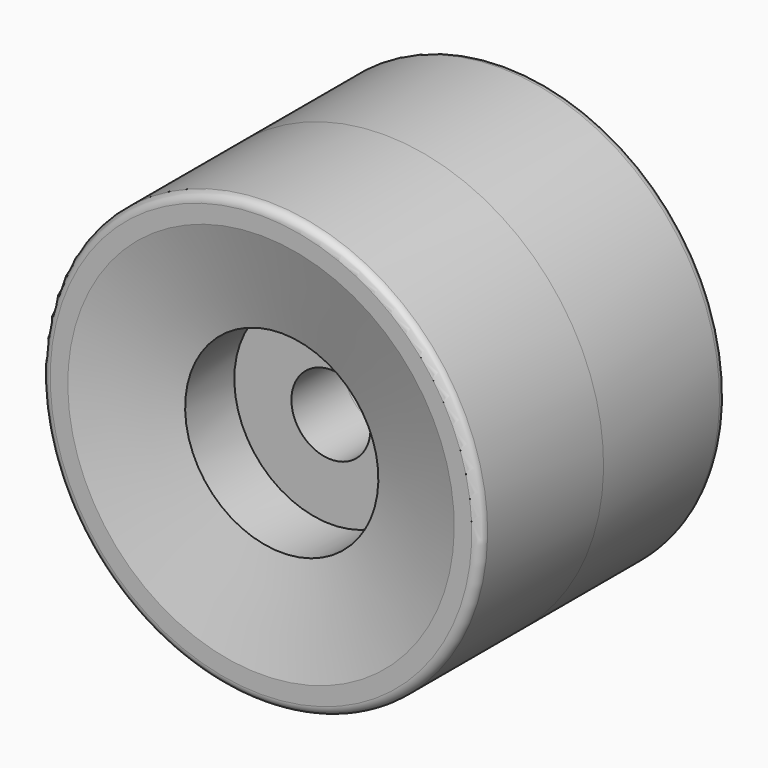
from build123d import *


with BuildPart() as f1:
    # F0 (on Right) → F1 (revolve)
    with BuildSketch(Plane.YZ):
        with BuildLine():
            Line((0, 25), (0, 4.5))
            Line((0, 4.5), (7.552559, 4.5))
            Line((7.552559, 4.5), (7.552559, 11))
            Line((7.552559, 11), (14.552559, 11))
            Line((14.552559, 11), (17.5, 22))
            Line((17.5, 22), (17.5, 24))
            ThreePointArc((17.5, 24), (17.207107, 24.707107), (16.5, 25))
            Line((16.5, 25), (0, 25))
        make_face()
    revolve(axis=Axis((0, 3.776279, 0), (0, 1, 0)))

    # F2: F1 across face


with BuildPart() as f1_1:
    add(f1.part)
    add(f1.part.mirror(Plane.XZ))


solid = f1_1.part
